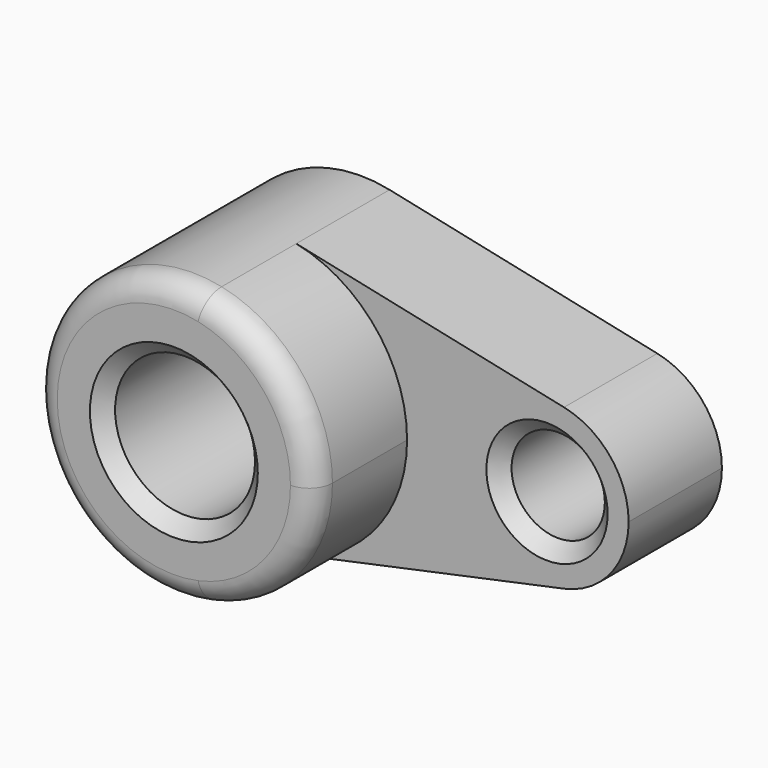
from build123d import *

# Parameters (mm, degrees)
F0_R     = 15
F0_R_2   = 10
F1_DEPTH = 25
F2_DEPTH = 50
F3_R     = 5
F4_SIZE  = 3


with BuildPart() as f1:
    # F0 (on Front) → F1 (new body)
    with BuildSketch(Plane.XZ):
        with BuildLine():
            ThreePointArc((6.25, -29.341736), (23.318448, -18.874586), (30, 0))
            ThreePointArc((30, 0), (23.318448, 18.874586), (6.25, 29.341736))
            ThreePointArc((6.25, 29.341736), (-30, 0), (6.25, -29.341736))
        make_face()
        Circle(F0_R, mode=Mode.SUBTRACT)
        with BuildLine():
            ThreePointArc((6.25, 29.341736), (23.318448, 18.874586), (30, 0))
            ThreePointArc((30, 0), (23.318448, -18.874586), (6.25, -29.341736))
            Line((6.25, -29.341736), (63.645833, -17.116013))
            ThreePointArc((63.645833, -17.116013), (42.5, 0), (63.645833, 17.116013))
            Line((63.645833, 17.116013), (6.25, 29.341736))
        make_face()
        with BuildLine():
            ThreePointArc((77.5, 0), (73.602428, 11.010175), (63.645833, 17.116013))
            ThreePointArc((63.645833, 17.116013), (42.5, 0), (63.645833, -17.116013))
            ThreePointArc((63.645833, -17.116013), (73.602428, -11.010175), (77.5, 0))
        make_face()
        with Locations((60, 0)):
            Circle(F0_R_2, mode=Mode.SUBTRACT)
    extrude(amount=F1_DEPTH)

    # F0 (on Front) → F2 (join)
    with BuildSketch(Plane.XZ):
        with BuildLine():
            ThreePointArc((6.25, -29.341736), (23.318448, -18.874586), (30, 0))
            ThreePointArc((30, 0), (23.318448, 18.874586), (6.25, 29.341736))
            ThreePointArc((6.25, 29.341736), (-30, 0), (6.25, -29.341736))
        make_face()
        Circle(F0_R, mode=Mode.SUBTRACT)
    extrude(amount=F2_DEPTH)

    # F3
    f3_edges = [f1.edges().sort_by_distance(p)[0] for p in [
        (-6.25, -50, 29.341736),
    ]]
    fillet(f3_edges, radius=F3_R)

    # F4
    f4_edges = [f1.edges().sort_by_distance(p)[0] for p in [
        (-15, -50, 0),
        (50, -25, 0),
    ]]
    chamfer(f4_edges, length=F4_SIZE)


solid = f1.part
